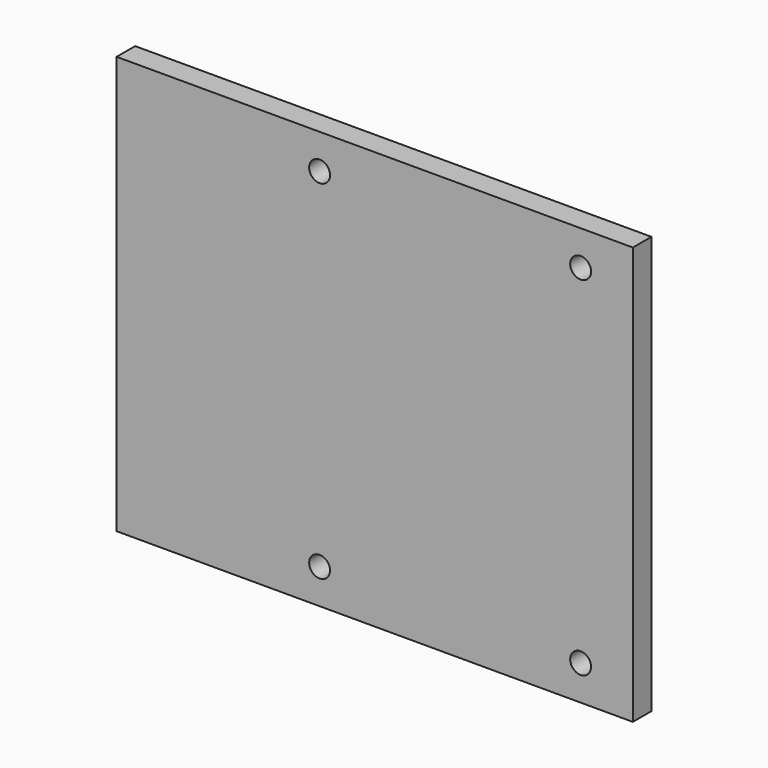
from build123d import *

# Parameters (mm, degrees)
CYLINDER019_R               = 1.8
CYLINDER019_DEPTH           = 20
ARRAY001010_X_COUNT         = 2
ARRAY001010_X_PITCH         = 60
ARRAY001010_Z_COUNT         = 3
ARRAY001010_Z_PITCH         = 45
ARRAY001010_PLACEMENT_ANGLE = 90
BOX011_W                    = 89
BOX011_H                    = 4
BOX011_DEPTH                = 72


with BuildPart() as bottom_hole_array004:
    # Cylinder019 → Cylinder019 (new body)
    with BuildSketch(Plane(origin=(59, 14, 53), x_dir=(1, 0, 0), z_dir=(0, 1, 0))):
        Circle(CYLINDER019_R)
    extrude(amount=CYLINDER019_DEPTH)

    # Array001010 X: bottom hole array004 ×2


with BuildPart() as bottom_hole_array004_1:
    add(bottom_hole_array004.part)
    with Locations(*[(i * ARRAY001010_X_PITCH, 0, 0) for i in range(1, ARRAY001010_X_COUNT)]):
        add(bottom_hole_array004.part)

    # Array001010 Z: bottom hole array004 ×3


with BuildPart() as bottom_hole_array004_2:
    add(bottom_hole_array004_1.part)
    with Locations(*[(0, 0, -i * ARRAY001010_Z_PITCH) for i in range(1, ARRAY001010_Z_COUNT)]):
        add(bottom_hole_array004_1.part)


with BuildPart() as bottom_hole_array004_3:
    # Array001010 placement: moved
    add(bottom_hole_array004_2.part.rotate(Axis((0, 0, 0), (0, 1, 0)), ARRAY001010_PLACEMENT_ANGLE))


with BuildPart() as top_plate_cut002:
    # Box011 → Box011 (new body)
    with BuildSketch(Plane(origin=(-27, 23, -125), x_dir=(1, 0, 0), z_dir=(0, 0, 1))):
        with Locations((44.5, 2)):
            Rectangle(BOX011_W, BOX011_H)
    extrude(amount=BOX011_DEPTH)

    # Cut010: cut bottom hole array004
    add(bottom_hole_array004_3.part, mode=Mode.SUBTRACT)


with BuildPart() as top_plate_cut002_1:
    # Cut010 placement: moved
    add(top_plate_cut002.part.moved(Location((0, 0, 10))))


solid = top_plate_cut002_1.part
